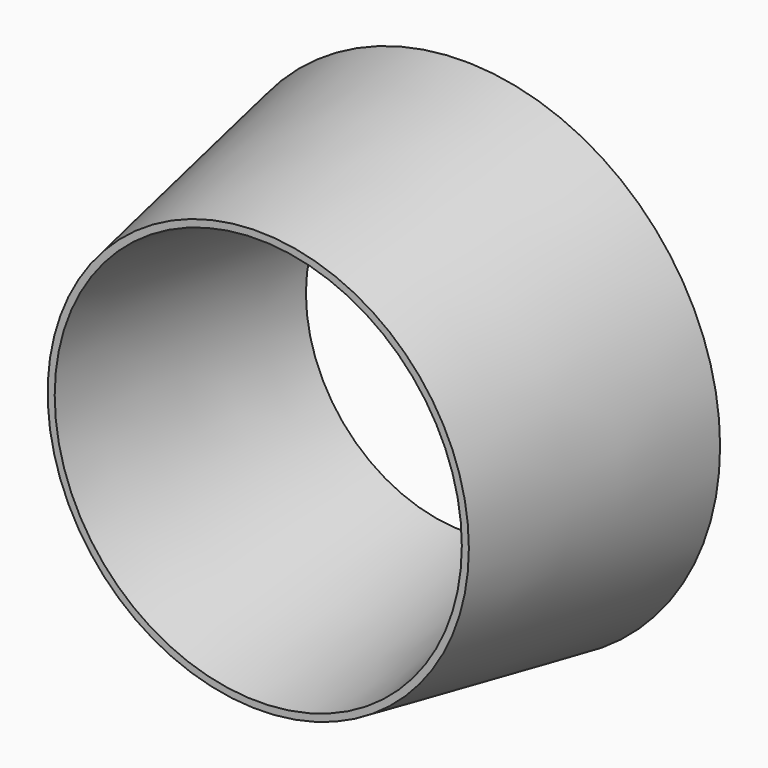
from build123d import *

# Parameters (mm, degrees)
F0_R     = 50.54004313
F0_R_2   = 31.2340713611
F1_DEPTH = 50.8
F1_TAPER = 10


with BuildPart() as f1:
    # F0 (on Front) → F1 (new body)
    with BuildSketch(Plane.XZ):
        with Locations((-5.3871083073, 0)):
            Circle(F0_R)
        with Locations((-5.3871083073, 0)):
            Circle(F0_R_2, mode=Mode.SUBTRACT)
    extrude(amount=F1_DEPTH, taper=F1_TAPER)


solid = f1.part
